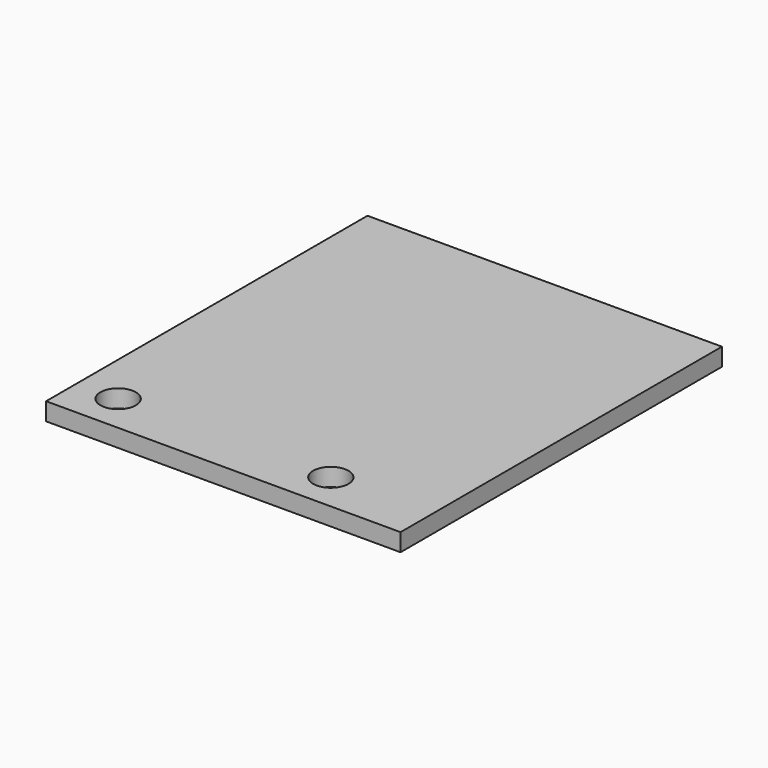
from build123d import *

# Parameters (mm, degrees)
CYLINDER016_R     = 1.5
CYLINDER016_DEPTH = 20
CYLINDER017_R     = 1.5
CYLINDER017_DEPTH = 20
BOX006_W          = 30
BOX006_H          = 34
BOX006_DEPTH      = 1.5


with BuildPart() as cylinder016:
    # Cylinder016 → Cylinder016 (new body)
    with BuildSketch(Plane(origin=(2, 15.25, 20), x_dir=(1, 0, 0), z_dir=(0, 0, 1))):
        Circle(CYLINDER016_R)
    extrude(amount=CYLINDER016_DEPTH)


with BuildPart() as fusion004:
    # Cylinder017 → Cylinder017 (new body)
    with BuildSketch(Plane(origin=(20, 15.25, 20), x_dir=(1, 0, 0), z_dir=(0, 0, 1))):
        Circle(CYLINDER017_R)
    extrude(amount=CYLINDER017_DEPTH)

    # Fusion004: union Cylinder016
    add(cylinder016.part)


with BuildPart() as sup_gps_b:
    # Box006 → Box006 (new body)
    with BuildSketch(Plane(origin=(-1.5, 12, 35), x_dir=(1, 0, 0), z_dir=(0, 0, 1))):
        with Locations((15, 17)):
            Rectangle(BOX006_W, BOX006_H)
    extrude(amount=BOX006_DEPTH)

    # Cut004: cut Fusion004
    add(fusion004.part, mode=Mode.SUBTRACT)


solid = sup_gps_b.part
